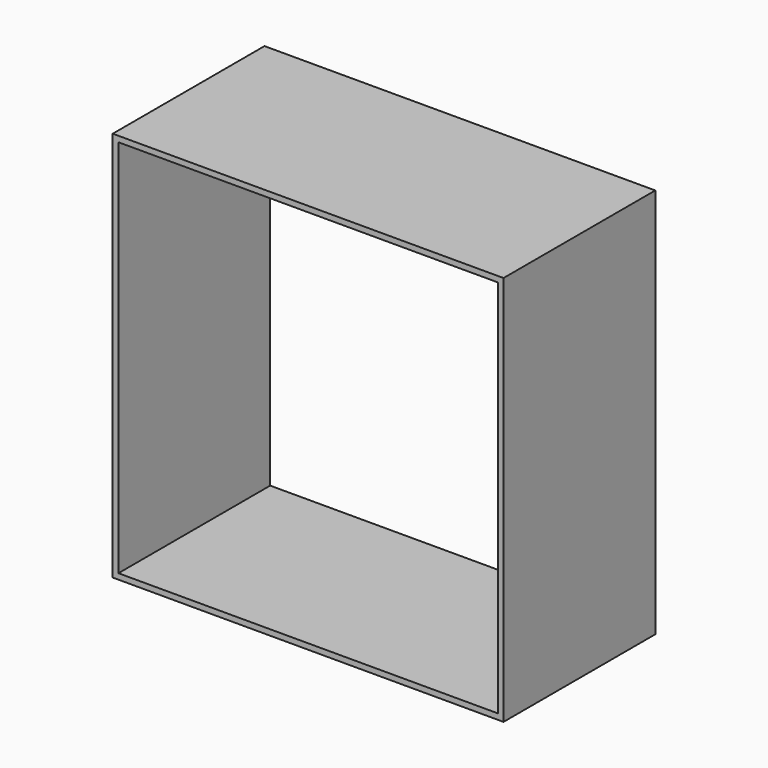
from build123d import *

# Parameters (mm, degrees)
F0_W     = 0.762
F0_H     = 0.762
F0_W_2   = 11.938
F1_DEPTH = 25.4


with BuildPart() as f1:
    # F0 (on Front) → F1 (new body)
    with BuildSketch(Plane.XZ):
        Polygon((-88.76095, 8.828352), (-88.76095, 59.628352), (-76.82295, 59.628352), (-76.82295, 60.390352), (-89.52295, 60.390352), (-89.52295, 8.066352), (-76.82295, 8.066352), (-76.82295, 8.828352), align=None)
        with Locations((-76.44195, 60.009352)):
            Rectangle(F0_W, F0_H)
        with Locations((-70.09195, 60.009352)):
            Rectangle(F0_W_2, F0_H)
        with Locations((-76.44195, 8.447352)):
            Rectangle(F0_W, F0_H)
        with Locations((-63.74195, 60.009352)):
            Rectangle(F0_W, F0_H)
        with Locations((-70.09195, 8.447352)):
            Rectangle(F0_W_2, F0_H)
        with Locations((-57.39195, 60.009352)):
            Rectangle(F0_W_2, F0_H)
        with Locations((-63.74195, 8.447352)):
            Rectangle(F0_W, F0_H)
        with Locations((-51.04195, 60.009352)):
            Rectangle(F0_W, F0_H)
        with Locations((-57.39195, 8.447352)):
            Rectangle(F0_W_2, F0_H)
        Polygon((-50.66095, 60.390352), (-50.66095, 59.628352), (-37.96095, 59.628352), (-37.96095, 8.828352), (-50.66095, 8.828352), (-50.66095, 8.066352), (-37.19895, 8.066352), (-37.19895, 60.390352), align=None)
        with Locations((-51.04195, 8.447352)):
            Rectangle(F0_W, F0_H)
    extrude(amount=F1_DEPTH)


solid = f1.part
